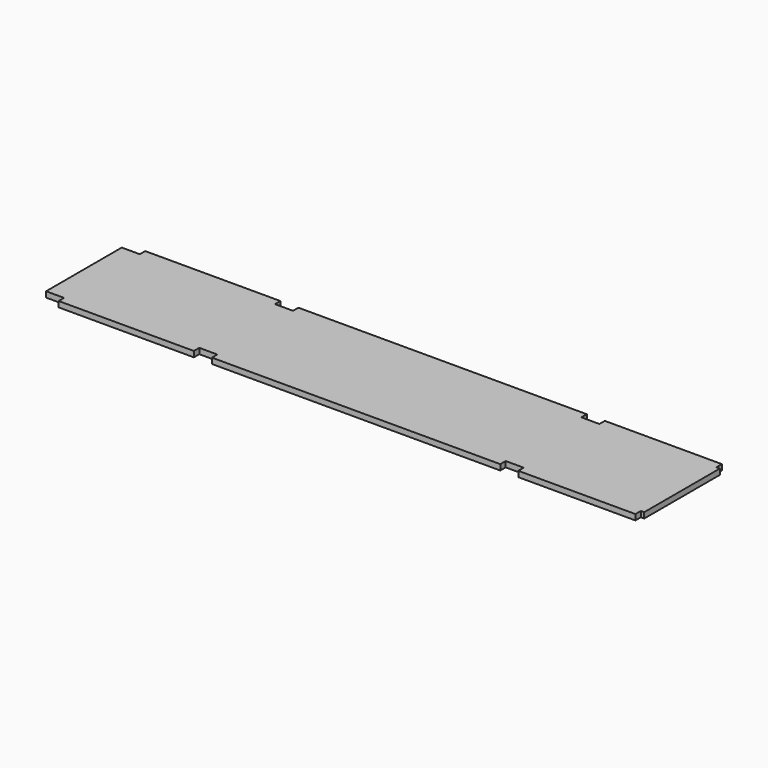
from build123d import *

# Parameters (mm, degrees)
F1_DEPTH = 15.875


with BuildPart() as f1:
    # F0 (on Top) → F1 (new body)
    with BuildSketch(Plane.XY):
        Polygon((-114.410472, 425.45), (-444.5, 425.45), (-444.5, 406.4), (-495.3, 406.4), (-495.3, 425.45), (-1308.1, 425.45), (-1308.1, 406.4), (-1358.9, 406.4), (-1358.9, 425.45), (-1739.9, 425.45), (-1739.9, 406.4), (-1790.7, 406.4), (-1790.7, 139.7), (-1739.9, 139.7), (-1739.9, 120.65), (-1358.9, 120.65), (-1358.9, 139.7), (-1308.1, 139.7), (-1308.1, 120.65), (-495.3, 120.65), (-495.3, 139.7), (-444.5, 139.7), (-444.5, 120.65), (-114.410472, 120.65), (-114.410472, 139.7), (-104.885472, 139.7), (-104.885472, 406.4), (-114.410472, 406.4), align=None)
    extrude(amount=F1_DEPTH)


solid = f1.part
